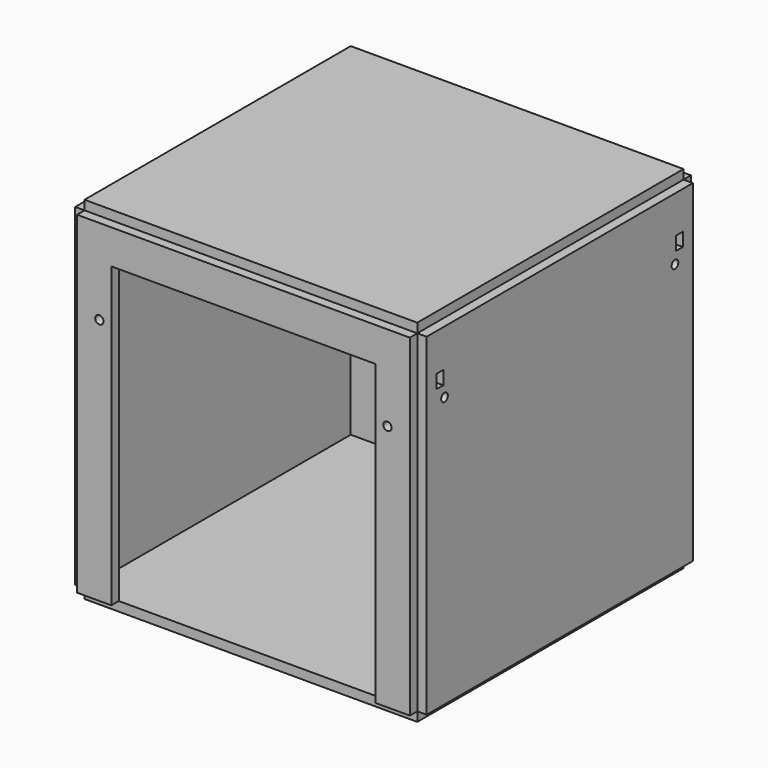
from build123d import *

# Parameters (mm, degrees)
F1_W      = 320
F1_H      = 320
F2_DEPTH  = 9
F3_W      = 320
F3_H      = 320
F3_R      = 4
F4_DEPTH  = 9
F7_W      = 320
F7_H      = 320
F7_R      = 4
F8_DEPTH  = 9
F6_R      = 4
F9_DEPTH  = 9
F10_W     = 320
F10_H     = 320
F11_DEPTH = 9
F12_W     = 8
F12_H     = 13
F13_DEPTH = 9
F14_W     = 8
F14_H     = 13
F15_DEPTH = 9


with BuildPart() as f2:
    # F1 (on Top) → F2 (new body)
    with BuildSketch(Plane.XY):
        Rectangle(F1_W, F1_H)
    extrude(amount=-F2_DEPTH)


with BuildPart() as f4:
    # F3 (on face) → F4 (new body)
    with BuildSketch(Plane(origin=(-160, 0, 0), x_dir=(0, -1, 0), z_dir=(-1, 0, 0))):
        with Locations((0, 160)):
            Rectangle(F3_W, F3_H)
        with Locations((-138.5, 260)):
            Circle(F3_R, mode=Mode.SUBTRACT)
        with Locations((138.5, 260)):
            Circle(F3_R, mode=Mode.SUBTRACT)
    extrude(amount=F4_DEPTH)


with BuildPart() as f5_1:
    # F5: instance of F4
    add(f4.part.mirror(Plane.YZ))

    # F12 (on face) → F13 (cut, through all)
    with BuildSketch(Plane.YZ.offset(169)):
        with Locations((-144, 277.3)):
            Rectangle(F12_W, F12_H)
        with Locations((144, 277.3)):
            Rectangle(F12_W, F12_H)
    extrude(amount=-F13_DEPTH, mode=Mode.SUBTRACT)


with BuildPart() as f8:
    # F7 (on face) → F8 (new body)
    with BuildSketch(Plane(origin=(0, 160, 0), x_dir=(-1, 0, 0), z_dir=(0, 1, 0))):
        with Locations((0, 160)):
            Rectangle(F7_W, F7_H)
        with Locations((-138.5, 238)):
            Circle(F7_R, mode=Mode.SUBTRACT)
        with Locations((138.5, 238)):
            Circle(F7_R, mode=Mode.SUBTRACT)
    extrude(amount=F8_DEPTH)

    # F14 (on face) → F15 (cut, through all)
    with BuildSketch(Plane(origin=(0, 169, 0), x_dir=(-1, 0, 0), z_dir=(0, 1, 0))):
        with Locations((-144, 220.7)):
            Rectangle(F14_W, F14_H)
        with Locations((144, 220.7)):
            Rectangle(F14_W, F14_H)
    extrude(amount=-F15_DEPTH, mode=Mode.SUBTRACT)


with BuildPart() as f9:
    # F6 (on face) → F9 (new body)
    with BuildSketch(Plane.XZ.offset(160)):
        Polygon((-160, 320), (-160, 0), (-127, 0), (-127, 287), (127, 287), (127, 0), (160, 0), (160, 320), align=None)
        with Locations((-138.5, 238)):
            Circle(F6_R, mode=Mode.SUBTRACT)
        with Locations((138.5, 238)):
            Circle(F6_R, mode=Mode.SUBTRACT)
    extrude(amount=F9_DEPTH)


with BuildPart() as f11:
    # F10 (on face) → F11 (new body)
    with BuildSketch(Plane.XY.offset(320)):
        Rectangle(F10_W, F10_H)
    extrude(amount=F11_DEPTH)


solid = Compound([f2.part, f4.part, f5_1.part, f8.part, f9.part, f11.part])
